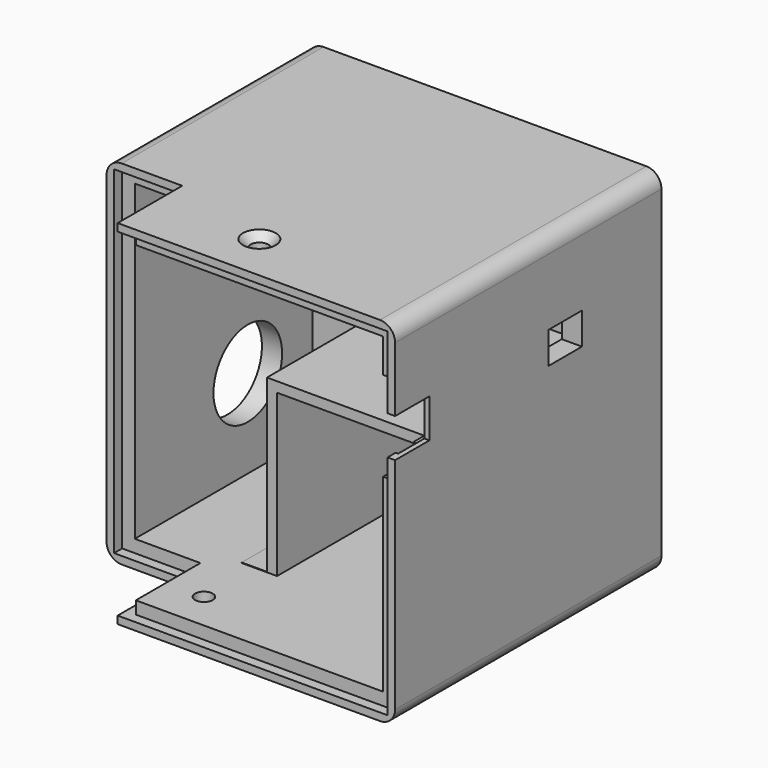
from build123d import *

# Parameters (mm, degrees)
BOX079_W               = 5
BOX079_H               = 29
BOX079_DEPTH           = 34
BOX078_W               = 5
BOX078_H               = 28
BOX078_DEPTH           = 32
BOX077_W               = 8
BOX077_H               = 8.3
BOX077_DEPTH           = 6.3
BOX075_W               = 11
BOX075_H               = 10
BOX075_DEPTH           = 11
BOX066_W               = 3
BOX066_H               = 3.5
BOX066_DEPTH           = 12
BOX065_W               = 3
BOX065_H               = 7.5
BOX065_DEPTH           = 17.78
BOX064_W               = 10
BOX064_H               = 8.5
BOX064_DEPTH           = 7.7
CYLINDER036_R          = 1.75
CYLINDER036_DEPTH      = 15
CYLINDER035_R          = 1.75
CYLINDER035_DEPTH      = 15
BOX035_W               = 8
BOX035_H               = 3
BOX035_DEPTH           = 6
BOX034_W               = 8
BOX034_H               = 3
BOX034_DEPTH           = 6
CYLINDER016_R          = 1.7
CYLINDER016_DEPTH      = 15
CYLINDER016_ROLL_ANGLE = 90
CYLINDER015_R          = 1.7
CYLINDER015_DEPTH      = 15
CYLINDER015_ROLL_ANGLE = 90
BOX031_W               = 39
BOX031_H               = 40
BOX031_DEPTH           = 2
BOX032_W               = 34
BOX032_H               = 40
BOX032_DEPTH           = 7
BOX032_PITCH_ANGLE     = 90
BOX033_W               = 34
BOX033_H               = 40
BOX033_DEPTH           = 4
BOX033_PITCH_ANGLE     = 90
BOX028_W               = 15.5
BOX028_H               = 2
BOX028_DEPTH           = 2.5
BOX027_W               = 15.5
BOX027_H               = 2
BOX027_DEPTH           = 2.5
BOX026_W               = 2
BOX026_H               = 2.5
BOX026_DEPTH           = 14
BOX026_ROLL_ANGLE      = 90
BOX025_W               = 2
BOX025_H               = 2.5
BOX025_DEPTH           = 14
BOX025_ROLL_ANGLE      = 90
BOX024_W               = 2.5
BOX024_H               = 2
BOX024_DEPTH           = 51
BOX024_PITCH_ANGLE     = 90
BOX023_W               = 2.5
BOX023_H               = 2
BOX023_DEPTH           = 51
BOX023_PITCH_ANGLE     = 90
BOX022_W               = 2.5
BOX022_H               = 2
BOX022_DEPTH           = 62
BOX021_W               = 2.5
BOX021_H               = 2
BOX021_DEPTH           = 67
BOX020_W               = 62
BOX020_H               = 62
BOX020_DEPTH           = 62
BOX020_ROLL_ANGLE      = 90
PAD005_DEPTH           = 70
SKETCH010_R            = 8.5
POCKET002004_DEPTH     = 5
SKETCH011_W            = 45
SKETCH011_H            = 32
POCKET002005_DEPTH     = 4
FILLET_R               = 3
CHAMFER007_SIZE        = 1.5


with BuildPart() as cube078:
    # Box079 → Box079 (new body)
    with BuildSketch(Plane(origin=(22, 26, 4.1), x_dir=(1, 0, 0), z_dir=(0, 0, 1))):
        with Locations((2.5, 14.5)):
            Rectangle(BOX079_W, BOX079_H)
    extrude(amount=BOX079_DEPTH)


with BuildPart() as cube077:
    # Box078 → Box078 (new body)
    with BuildSketch(Plane(origin=(59, 26, 4.1), x_dir=(1, 0, 0), z_dir=(0, 0, 1))):
        with Locations((2.5, 14)):
            Rectangle(BOX078_W, BOX078_H)
    extrude(amount=BOX078_DEPTH)


with BuildPart() as cube076:
    # Box077 → Box077 (new body)
    with BuildSketch(Plane(origin=(64, 42, 47.5), x_dir=(1, 0, 0), z_dir=(0, 0, 1))):
        with Locations((4, 4.15)):
            Rectangle(BOX077_W, BOX077_H)
    extrude(amount=BOX077_DEPTH)


with BuildPart() as cube074:
    # Box075 → Box075 (new body)
    with BuildSketch(Plane(origin=(44.5, 62, 47.5), x_dir=(1, 0, 0), z_dir=(0, 0, 1))):
        with Locations((5.5, 5)):
            Rectangle(BOX075_W, BOX075_H)
    extrude(amount=BOX075_DEPTH)


with BuildPart() as cube065:
    # Box066 → Box066 (new body)
    with BuildSketch(Plane(origin=(66, 13.5, 44.5), x_dir=(1, 0, 0), z_dir=(0, 0, 1))):
        with Locations((1.5, 1.75)):
            Rectangle(BOX066_W, BOX066_H)
    extrude(amount=BOX066_DEPTH)


with BuildPart() as cube064:
    # Box065 → Box065 (new body)
    with BuildSketch(Plane(origin=(66, 6, 41.5), x_dir=(1, 0, 0), z_dir=(0, 0, 1))):
        with Locations((1.5, 3.75)):
            Rectangle(BOX065_W, BOX065_H)
    extrude(amount=BOX065_DEPTH)


with BuildPart() as cube063:
    # Box064 → Box064 (new body)
    with BuildSketch(Plane(origin=(60, 4, 46.5), x_dir=(1, 0, 0), z_dir=(0, 0, 1))):
        with Locations((5, 4.25)):
            Rectangle(BOX064_W, BOX064_H)
    extrude(amount=BOX064_DEPTH)


with BuildPart() as cylinder068:
    # Cylinder036 → Cylinder036 (new body)
    with BuildSketch(Plane(origin=(24.5, 13.5, -4), x_dir=(1, 0, 0), z_dir=(0, 0, 1))):
        Circle(CYLINDER036_R)
    extrude(amount=CYLINDER036_DEPTH)


with BuildPart() as cylinder067:
    # Cylinder035 → Cylinder035 (new body)
    with BuildSketch(Plane(origin=(35.5, 13.5, 59), x_dir=(1, 0, 0), z_dir=(0, 0, 1))):
        Circle(CYLINDER035_R)
    extrude(amount=CYLINDER035_DEPTH)


with BuildPart() as cube035:
    # Box035 → Box035 (new body)
    with BuildSketch(Plane(origin=(22, 61, 17), x_dir=(1, 0, 0), z_dir=(0, 0, 1))):
        with Locations((4, 1.5)):
            Rectangle(BOX035_W, BOX035_H)
    extrude(amount=BOX035_DEPTH)


with BuildPart() as cube034:
    # Box034 → Box034 (new body)
    with BuildSketch(Plane(origin=(60, 61, 17), x_dir=(1, 0, 0), z_dir=(0, 0, 1))):
        with Locations((4, 1.5)):
            Rectangle(BOX034_W, BOX034_H)
    extrude(amount=BOX034_DEPTH)


with BuildPart() as cylinder051:
    # Cylinder016 → Cylinder016 (new body)
    with BuildSketch(Plane.XY):
        Circle(CYLINDER016_R)
    extrude(amount=CYLINDER016_DEPTH)


with BuildPart() as cylinder051_1:
    # Cylinder016 roll: moved
    add(cylinder051.part.rotate(Axis((0, 0, 0), (1, 0, 0)), CYLINDER016_ROLL_ANGLE))


with BuildPart() as cylinder051_2:
    # Cylinder016 placement: moved
    add(cylinder051_1.part.moved(Location((26, 67, 20))))


with BuildPart() as cylinder050:
    # Cylinder015 → Cylinder015 (new body)
    with BuildSketch(Plane.XY):
        Circle(CYLINDER015_R)
    extrude(amount=CYLINDER015_DEPTH)


with BuildPart() as cylinder050_1:
    # Cylinder015 roll: moved
    add(cylinder050.part.rotate(Axis((0, 0, 0), (1, 0, 0)), CYLINDER015_ROLL_ANGLE))


with BuildPart() as cylinder050_2:
    # Cylinder015 placement: moved
    add(cylinder050_1.part.moved(Location((65, 67, 20))))


with BuildPart() as cube031:
    # Box031 → Box031 (new body)
    with BuildSketch(Plane(origin=(25, 26, 36), x_dir=(1, 0, 0), z_dir=(0, 0, 1))):
        with Locations((19.5, 20)):
            Rectangle(BOX031_W, BOX031_H)
    extrude(amount=BOX031_DEPTH)


with BuildPart() as cube032:
    # Box032 → Box032 (new body)
    with BuildSketch(Plane.XY):
        with Locations((17, 20)):
            Rectangle(BOX032_W, BOX032_H)
    extrude(amount=BOX032_DEPTH)


with BuildPart() as cube032_1:
    # Box032 pitch: moved
    add(cube032.part.rotate(Axis((0, 0, 0), (0, 1, 0)), BOX032_PITCH_ANGLE))


with BuildPart() as cube032_2:
    # Box032 placement: moved
    add(cube032_1.part.moved(Location((22, 26, 38))))


with BuildPart() as cube033:
    # Box033 → Box033 (new body)
    with BuildSketch(Plane.XY):
        with Locations((17, 20)):
            Rectangle(BOX033_W, BOX033_H)
    extrude(amount=BOX033_DEPTH)


with BuildPart() as cube033_1:
    # Box033 pitch: moved
    add(cube033.part.rotate(Axis((0, 0, 0), (0, 1, 0)), BOX033_PITCH_ANGLE))


with BuildPart() as cube033_2:
    # Box033 placement: moved
    add(cube033_1.part.moved(Location((62, 26, 38))))


with BuildPart() as cube028:
    # Box028 → Box028 (new body)
    with BuildSketch(Plane(origin=(1.5, 20, 66), x_dir=(1, 0, 0), z_dir=(0, 0, 1))):
        with Locations((7.75, 1)):
            Rectangle(BOX028_W, BOX028_H)
    extrude(amount=BOX028_DEPTH)


with BuildPart() as cube027:
    # Box027 → Box027 (new body)
    with BuildSketch(Plane(origin=(1.5, 20, 1.5), x_dir=(1, 0, 0), z_dir=(0, 0, 1))):
        with Locations((7.75, 1)):
            Rectangle(BOX027_W, BOX027_H)
    extrude(amount=BOX027_DEPTH)


with BuildPart() as cube026:
    # Box026 → Box026 (new body)
    with BuildSketch(Plane.XY):
        with Locations((1, 1.25)):
            Rectangle(BOX026_W, BOX026_H)
    extrude(amount=BOX026_DEPTH)


with BuildPart() as cube026_1:
    # Box026 roll: moved
    add(cube026.part.rotate(Axis((0, 0, 0), (1, 0, 0)), BOX026_ROLL_ANGLE))


with BuildPart() as cube026_2:
    # Box026 placement: moved
    add(cube026_1.part.moved(Location((15, 20, 1.5))))


with BuildPart() as cube025:
    # Box025 → Box025 (new body)
    with BuildSketch(Plane.XY):
        with Locations((1, 1.25)):
            Rectangle(BOX025_W, BOX025_H)
    extrude(amount=BOX025_DEPTH)


with BuildPart() as cube025_1:
    # Box025 roll: moved
    add(cube025.part.rotate(Axis((0, 0, 0), (1, 0, 0)), BOX025_ROLL_ANGLE))


with BuildPart() as cube025_2:
    # Box025 placement: moved
    add(cube025_1.part.moved(Location((15, 20, 66))))


with BuildPart() as cube024:
    # Box024 → Box024 (new body)
    with BuildSketch(Plane.XY):
        with Locations((1.25, 1)):
            Rectangle(BOX024_W, BOX024_H)
    extrude(amount=BOX024_DEPTH)


with BuildPart() as cube024_1:
    # Box024 pitch: moved
    add(cube024.part.rotate(Axis((0, 0, 0), (0, 1, 0)), BOX024_PITCH_ANGLE))


with BuildPart() as cube024_2:
    # Box024 placement: moved
    add(cube024_1.part.moved(Location((15, 4, 68.5))))


with BuildPart() as cube023:
    # Box023 → Box023 (new body)
    with BuildSketch(Plane.XY):
        with Locations((1.25, 1)):
            Rectangle(BOX023_W, BOX023_H)
    extrude(amount=BOX023_DEPTH)


with BuildPart() as cube023_1:
    # Box023 pitch: moved
    add(cube023.part.rotate(Axis((0, 0, 0), (0, 1, 0)), BOX023_PITCH_ANGLE))


with BuildPart() as cube023_2:
    # Box023 placement: moved
    add(cube023_1.part.moved(Location((15, 4, 4))))


with BuildPart() as cube022:
    # Box022 → Box022 (new body)
    with BuildSketch(Plane(origin=(1.5, 20, 4), x_dir=(1, 0, 0), z_dir=(0, 0, 1))):
        with Locations((1.25, 1)):
            Rectangle(BOX022_W, BOX022_H)
    extrude(amount=BOX022_DEPTH)


with BuildPart() as cube021:
    # Box021 → Box021 (new body)
    with BuildSketch(Plane(origin=(66, 4, 1.5), x_dir=(1, 0, 0), z_dir=(0, 0, 1))):
        with Locations((1.25, 1)):
            Rectangle(BOX021_W, BOX021_H)
    extrude(amount=BOX021_DEPTH)


with BuildPart() as cube020:
    # Box020 → Box020 (new body)
    with BuildSketch(Plane.XY):
        with Locations((31, 31)):
            Rectangle(BOX020_W, BOX020_H)
    extrude(amount=BOX020_DEPTH)


with BuildPart() as cube020_1:
    # Box020 roll: moved
    add(cube020.part.rotate(Axis((0, 0, 0), (1, 0, 0)), BOX020_ROLL_ANGLE))


with BuildPart() as cube020_2:
    # Box020 placement: moved
    add(cube020_1.part.moved(Location((4, 66, 4))))


with BuildPart() as cut094:
    # Sketch009 → Pad005 (new body)
    with BuildSketch(Plane.XY):
        Polygon((0, 20), (15, 20), (15, 4), (70, 4), (70, 70), (0, 70), align=None)
    extrude(amount=PAD005_DEPTH)

    # Cut024: cut Cube020
    add(cube020_2.part, mode=Mode.SUBTRACT)

    # Cut025: cut Cube021
    add(cube021.part, mode=Mode.SUBTRACT)

    # Cut026: cut Cube022
    add(cube022.part, mode=Mode.SUBTRACT)

    # Cut027: cut Cube023
    add(cube023_2.part, mode=Mode.SUBTRACT)

    # Cut028: cut Cube024
    add(cube024_2.part, mode=Mode.SUBTRACT)

    # Cut029: cut Cube025
    add(cube025_2.part, mode=Mode.SUBTRACT)

    # Cut030: cut Cube026
    add(cube026_2.part, mode=Mode.SUBTRACT)

    # Cut031: cut Cube027
    add(cube027.part, mode=Mode.SUBTRACT)

    # Cut032: cut Cube028
    add(cube028.part, mode=Mode.SUBTRACT)

    # Sketch010 → Pocket002004 (cut)
    with BuildSketch(Plane(origin=(0, 0, 0), x_dir=(0, -1, 0), z_dir=(-1, 0, 0))):
        with Locations((-50, 21.5)):
            Circle(SKETCH010_R)
        with Locations((-50, 48.5)):
            Circle(SKETCH010_R)
    extrude(amount=-POCKET002004_DEPTH, mode=Mode.SUBTRACT)

    # Sketch011 → Pocket002005 (cut)
    with BuildSketch(Plane(origin=(0, 70, 0), x_dir=(-1, 0, 0), z_dir=(0, 1, 0))):
        with Locations((-45.5, 20)):
            Rectangle(SKETCH011_W, SKETCH011_H)
    extrude(amount=-POCKET002005_DEPTH, mode=Mode.SUBTRACT)

    # Fusion007: union Cube031, Cube032, Cube033
    add(cube031.part)
    add(cube032_2.part)
    add(cube033_2.part)

    # Cut033: cut Cylinder050
    add(cylinder050_2.part, mode=Mode.SUBTRACT)

    # Cut034: cut Cylinder051
    add(cylinder051_2.part, mode=Mode.SUBTRACT)

    # Cut035: cut Cube034
    add(cube034.part, mode=Mode.SUBTRACT)

    # Cut036: cut Cube035
    add(cube035.part, mode=Mode.SUBTRACT)

    # Fillet
    fillet_edges = [cut094.edges().sort_by_distance(p)[0] for p in [
        (70, 37, 0),
        (0, 45, 0),
        (70, 37, 70),
        (0, 45, 70),
    ]]
    fillet(fillet_edges, radius=FILLET_R)

    # Cut072: cut Cylinder067
    add(cylinder067.part, mode=Mode.SUBTRACT)

    # Cut073: cut Cylinder068
    add(cylinder068.part, mode=Mode.SUBTRACT)

    # Chamfer007
    chamfer007_edges = [cut094.edges().sort_by_distance(p)[0] for p in [
        (33.75, 13.5, 70),
        (22.75, 13.5, 0),
    ]]
    chamfer(chamfer007_edges, length=CHAMFER007_SIZE)

    # Cut076: cut Cube063
    add(cube063.part, mode=Mode.SUBTRACT)

    # Cut077: cut Cube064
    add(cube064.part, mode=Mode.SUBTRACT)

    # Cut078: cut Cube065
    add(cube065.part, mode=Mode.SUBTRACT)

    # Cut085: cut Cube074
    add(cube074.part, mode=Mode.SUBTRACT)

    # Cut087: cut Cube076
    add(cube076.part, mode=Mode.SUBTRACT)

    # Cut088: cut Cube077
    add(cube077.part, mode=Mode.SUBTRACT)

    # Cut089: cut Cube078
    add(cube078.part, mode=Mode.SUBTRACT)


solid = cut094.part
